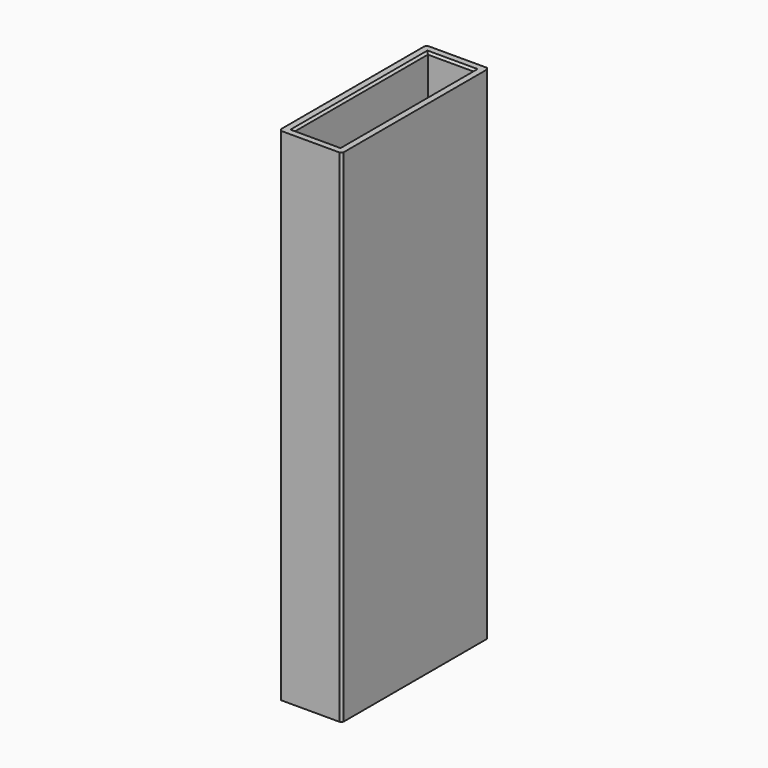
from build123d import *

# Parameters (mm, degrees)
SKETCH117_W     = 15
SKETCH117_H     = 44
SKETCH117_W_2   = 7
SKETCH117_H_2   = 30
PAD063_DEPTH    = 120
SKETCH118_W     = 11
SKETCH118_H     = 40
POCKET044_DEPTH = 31
SKETCH119_W     = 11
SKETCH119_H     = 40
POCKET045_DEPTH = 31
CHAMFER061_SIZE = 0.5
CHAMFER062_SIZE = 0.5


with BuildPart() as part:
    # Sketch117 → Pad063 (new body)
    with BuildSketch(Plane.XY):
        Rectangle(SKETCH117_W, SKETCH117_H)
        Rectangle(SKETCH117_W_2, SKETCH117_H_2, mode=Mode.SUBTRACT)
    extrude(amount=PAD063_DEPTH)

    # Sketch118 (on Face9 of Pad063) → Pocket044 (cut)
    with BuildSketch(Plane(origin=(0, 0, 0), x_dir=(1, 0, 0), z_dir=(0, 0, -1))):
        Rectangle(SKETCH118_W, SKETCH118_H)
    extrude(amount=-POCKET044_DEPTH, mode=Mode.SUBTRACT)

    # Sketch119 (on Face5 of Pocket044) → Pocket045 (cut)
    with BuildSketch(Plane.XY.offset(120)):
        Rectangle(SKETCH119_W, SKETCH119_H)
    extrude(amount=-POCKET045_DEPTH, mode=Mode.SUBTRACT)

    # Chamfer061
    chamfer061_edges = [part.edges().sort_by_distance(p)[0] for p in [
        (7.5, -22, 60),
        (-7.5, -22, 60),
        (-7.5, 22, 60),
        (7.5, 22, 60),
    ]]
    chamfer(chamfer061_edges, length=CHAMFER061_SIZE)

    # Chamfer062
    chamfer062_edges = [part.edges().sort_by_distance(p)[0] for p in [
        (-5.5, 0, 120),
        (0, -20, 120),
        (5.5, 0, 120),
        (0, 20, 120),
        (-5.5, 0, 0),
        (5.5, 0, 0),
        (0, -20, 0),
        (0, 20, 0),
    ]]
    chamfer(chamfer062_edges, length=CHAMFER062_SIZE)


with BuildPart() as part_1:
    # Body022 placement: moved
    add(part.part.moved(Location((-106.5, -22, -126))))


solid = part_1.part
